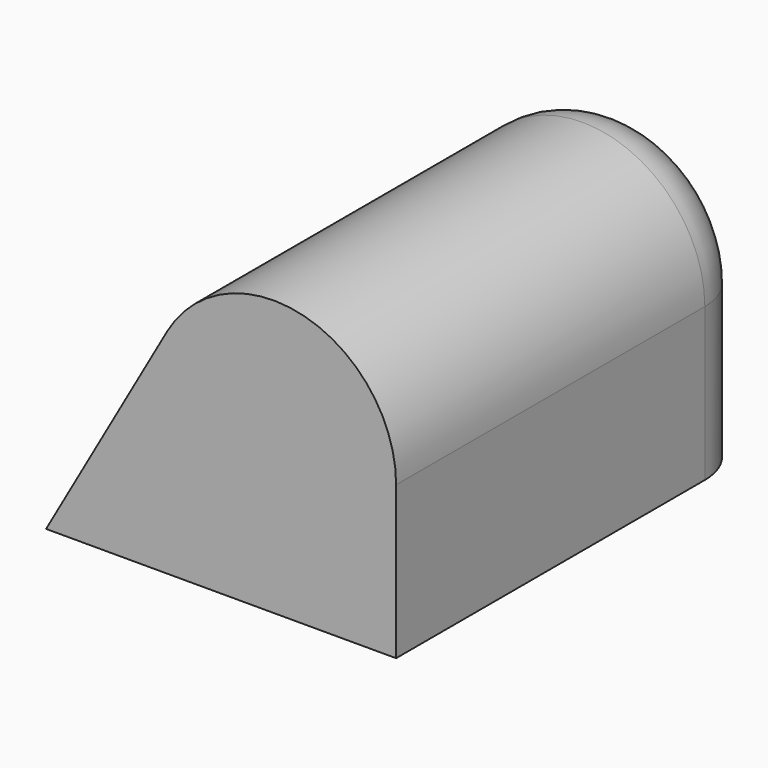
from build123d import *

# Parameters (mm, degrees)
F1_DEPTH = 92.71
F2_R     = 25.4
F3_R     = 12.7
F4_T     = -5.08


with BuildPart() as f1:
    # F0 (on Front) → F1 (new body)
    with BuildSketch(Plane.XZ):
        Polygon((72.5779831409, 127.8628706932), (0, 0), (72.5779831409, 0), align=None)
    extrude(amount=F1_DEPTH)

    # F2
    f2_edges = [f1.edges().sort_by_distance(p)[0] for p in [
        (72.577983, -46.355, 127.862871),
    ]]
    fillet(f2_edges, radius=F2_R)

    # F3
    f3_edges = [f1.edges().sort_by_distance(p)[0] for p in [
        (53.662076, 0, 56.219085),
    ]]
    fillet(f3_edges, radius=F3_R)

    # F4
    f4_openings = [f1.faces().sort_by_distance(p)[0] for p in [
        (36.312527, -46.841656, 0),
    ]]
    offset(amount=F4_T, openings=f4_openings)


solid = f1.part
